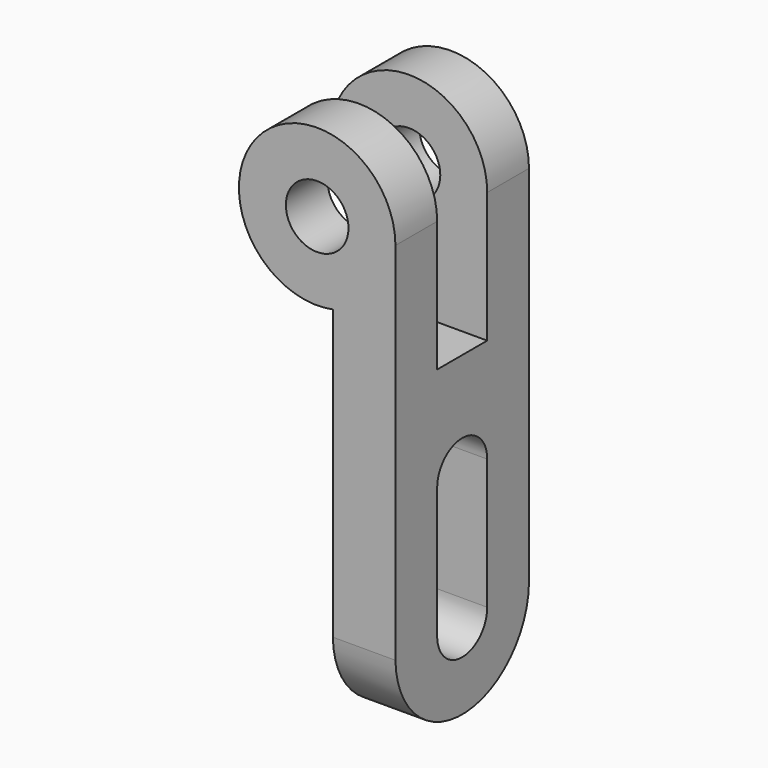
from build123d import *

# Parameters (mm, degrees)
F0_R     = 6
F1_DEPTH = 16
F3_W     = 12
F3_H     = 25
F3_H_2   = 40
F4_DEPTH = 32.187343


with BuildPart() as f1:
    # F0 (on Front) → F1 (new body, symmetric)
    with BuildSketch(Plane.XZ):
        with BuildLine():
            Line((2.186343, -99.804071), (2.186343, -13.804071))
            ThreePointArc((2.186343, -13.804071), (-24.432607, -4.317238), (-9.813657, -28.501009))
            Line((-9.813657, -28.501009), (-9.813657, -99.804071))
            Line((-9.813657, -99.804071), (2.186343, -99.804071))
        make_face()
        with Locations((-12.813657, -13.804071)):
            Circle(F0_R, mode=Mode.SUBTRACT)
    extrude(amount=F1_DEPTH, both=True)

    # F3 (on offset) → F4 (cut, through all)
    with BuildSketch(Plane.YZ.offset(-30)):
        with BuildLine():
            ThreePointArc((16, -83.804071), (0, -99.461515), (-16, -83.804071))
            Line((-16, -83.804071), (-16, -99.804071))
            Line((-16, -99.804071), (16, -99.804071))
            Line((16, -99.804071), (16, -83.804071))
        make_face()
        with BuildLine():
            Line((-6, -58.804071), (6, -58.804071))
            ThreePointArc((6, -58.804071), (0, -52.804071), (-6, -58.804071))
        make_face()
        with BuildLine():
            ThreePointArc((-6, -83.804071), (0, -89.804071), (6, -83.804071))
            Line((6, -83.804071), (-6, -83.804071))
        make_face()
        with Locations((0, -71.304071)):
            Rectangle(F3_W, F3_H)
        with BuildLine():
            ThreePointArc((16, -83.804071), (0, -99.461515), (-16, -83.804071))
            Line((-16, -83.804071), (-16, -99.804071))
            Line((-16, -99.804071), (16, -99.804071))
            Line((16, -99.804071), (16, -83.804071))
        make_face()
        with BuildLine():
            Line((-6, -58.804071), (6, -58.804071))
            ThreePointArc((6, -58.804071), (0, -52.804071), (-6, -58.804071))
        make_face()
        with BuildLine():
            ThreePointArc((-6, -83.804071), (0, -89.804071), (6, -83.804071))
            Line((6, -83.804071), (-6, -83.804071))
        make_face()
        with Locations((0, -71.304071)):
            Rectangle(F3_W, F3_H)
        with Locations((0, -18.804071)):
            Rectangle(F3_W, F3_H_2)
    extrude(amount=F4_DEPTH, mode=Mode.SUBTRACT)


solid = f1.part
